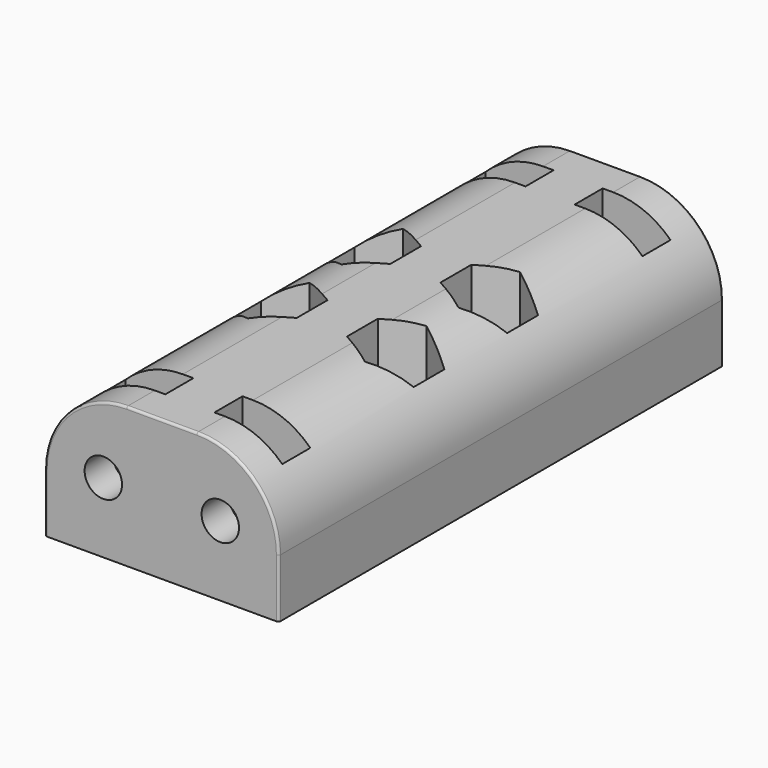
from build123d import *

# Parameters (mm, degrees)
SKETCH_W        = 20
SKETCH_H        = 47.5
PAD_DEPTH       = 12
SKETCH001_R     = 1.6
POCKET_DEPTH    = 8
SKETCH002_R     = 1.6
POCKET001_DEPTH = 8
SKETCH003_W     = 5.8
SKETCH003_H     = 3
POCKET002_DEPTH = 9.5
SKETCH004_R     = 1.6
POCKET003_DEPTH = 12
POCKET004_DEPTH = 9
POCKET005_DEPTH = 50
FILLET_R        = 0.2


with BuildPart() as part:
    # Sketch → Pad (new body)
    with BuildSketch(Plane.XY):
        Rectangle(SKETCH_W, SKETCH_H)
    extrude(amount=PAD_DEPTH)

    # Sketch001 (on Face3 of Pad) → Pocket (cut)
    with BuildSketch(Plane.XZ.offset(23.75)):
        with Locations((-5, 6)):
            Circle(SKETCH001_R)
        with Locations((5, 6)):
            Circle(SKETCH001_R)
    extrude(amount=-POCKET_DEPTH, mode=Mode.SUBTRACT)

    # Sketch002 (on Face1 of Pocket) → Pocket001 (cut)
    with BuildSketch(Plane(origin=(0, 23.75, 0), x_dir=(-1, 0, 0), z_dir=(0, 1, 0))):
        with Locations((-5, 6)):
            Circle(SKETCH002_R)
        with Locations((5, 6)):
            Circle(SKETCH002_R)
    extrude(amount=-POCKET001_DEPTH, mode=Mode.SUBTRACT)

    # Sketch003 (on Face4 of Pocket001) → Pocket002 (cut)
    with BuildSketch(Plane.XY.offset(12)):
        with Locations((-5, 19.25)):
            Rectangle(SKETCH003_W, SKETCH003_H)
        with Locations((5, 19.25)):
            Rectangle(SKETCH003_W, SKETCH003_H)
        with Locations((-5, -19.25)):
            Rectangle(SKETCH003_W, SKETCH003_H)
        with Locations((5, -19.25)):
            Rectangle(SKETCH003_W, SKETCH003_H)
    extrude(amount=-POCKET002_DEPTH, mode=Mode.SUBTRACT)

    # Sketch004 (on Face4 of Pocket002) → Pocket003 (cut)
    with BuildSketch(Plane.XY.offset(12)):
        with Locations((-5, 5)):
            Circle(SKETCH004_R)
        with Locations((5, 5)):
            Circle(SKETCH004_R)
        with Locations((-5, -5)):
            Circle(SKETCH004_R)
        with Locations((5, -5)):
            Circle(SKETCH004_R)
    extrude(amount=-POCKET003_DEPTH, mode=Mode.SUBTRACT)

    # Sketch005 (on Face4 of Pocket003) → Pocket004 (cut)
    with BuildSketch(Plane.XY.offset(12)):
        Polygon((-5, 8.290897), (-7.85, 6.645448), (-7.85, 3.354552), (-5, 1.709103), (-2.15, 3.354552), (-2.15, 6.645448), align=None)
        Polygon((7.85, 6.645448), (5, 8.290897), (2.15, 6.645448), (2.15, 3.354552), (5, 1.709103), (7.85, 3.354552), align=None)
        Polygon((-5, -1.709103), (-7.85, -3.354552), (-7.85, -6.645448), (-5, -8.290897), (-2.15, -6.645448), (-2.15, -3.354552), align=None)
        Polygon((7.85, -3.354552), (5, -1.709103), (2.15, -3.354552), (2.15, -6.645448), (5, -8.290897), (7.85, -6.645448), align=None)
    extrude(amount=-POCKET004_DEPTH, mode=Mode.SUBTRACT)

    # Sketch008 (on Face8 of Pocket004) → Pocket005 (cut)
    with BuildSketch(Plane.XZ.offset(23.75)):
        with BuildLine():
            ThreePointArc((-3, 12), (-7.949747, 9.949747), (-10, 5))
            Line((-10, 5), (-10, 13))
            Line((10, 13), (-10, 13))
            Line((10, 5), (10, 13))
            ThreePointArc((10, 5), (7.949747, 9.949747), (3, 12))
            Line((-3, 12), (3, 12))
        make_face()
    extrude(amount=-POCKET005_DEPTH, mode=Mode.SUBTRACT)

    # Fillet
    fillet_edges = [part.edges().sort_by_distance(p)[0] for p in [
        (10, -23.75, 2.5),
        (-10, -23.75, 2.5),
        (-10, 23.75, 2.5),
        (10, 23.75, 2.5),
    ]]
    fillet(fillet_edges, radius=FILLET_R)


solid = part.part
